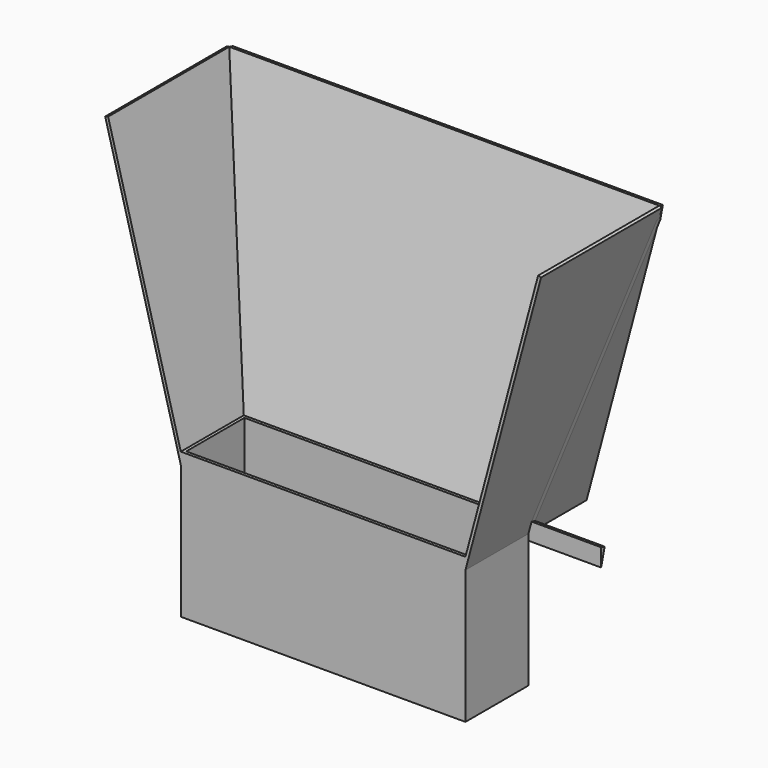
from build123d import *

# Parameters (mm, degrees)
F0_W          = 298.45
F0_H          = 82.55
F0_W_2        = 292.1
F0_H_2        = 76.2
F1_DEPTH      = 152.4
F4_DEPTH      = 158.75
F5_DEPTH      = 254
F5_DEPTH_BACK = 76.2
F7_DEPTH      = 25.4


with BuildPart() as f1:
    # F0 (on Top) → F1 (new body)
    with BuildSketch(Plane.XY):
        Rectangle(F0_W, F0_H)
        Rectangle(F0_W_2, F0_H_2, mode=Mode.SUBTRACT)
    extrude(amount=F1_DEPTH)

    # F2 (on face) → F4 (join)
    with BuildSketch(Plane.XZ.offset(41.275)):
        Polygon((-149.225, 140.1327420061), (-149.225, 152.4), (-225.425, 436.7822715367), (-228.4918144985, 435.9605210685), align=None)
    extrude(amount=-F4_DEPTH)

    # F3 (on face) → F5 (join, two sides)
    with BuildSketch(Plane(origin=(-149.225, 0, 0), x_dir=(0, -1, 0), z_dir=(-1, 0, 0))) as f5_sk:
        Polygon((-41.275, 133.7086633322), (-41.275, 152.4), (-117.475, 436.7822715367), (-122.147834167, 435.5301893953), align=None)
    extrude(amount=-F5_DEPTH)
    extrude(f5_sk.sketch, amount=F5_DEPTH_BACK)

    # F6: F1 across plane


with BuildPart() as f1_1:
    add(f1.part)
    add(f1.part.mirror(Plane.YZ))

    # F7 (cut): a face of the model
    f7_faces = [f1_1.faces().sort_by_distance(p)[0] for p in [
        (201.1206672909, 65.5793327091, 243.1050045143),
    ]]
    extrude(f7_faces, amount=-F7_DEPTH, mode=Mode.SUBTRACT)


solid = f1_1.part
